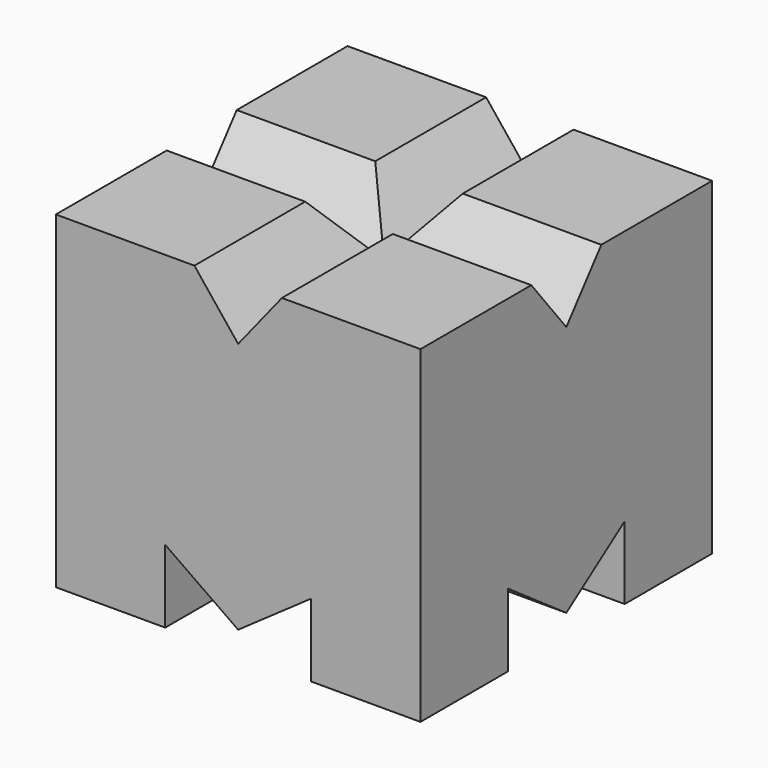
from build123d import *

# Parameters (mm, degrees)
F0_W     = 100
F0_H     = 100
F1_DEPTH = 90
F3_DEPTH = 100.001
F5_DEPTH = 100.001
F7_DEPTH = 100.001
F9_DEPTH = 100.001


with BuildPart() as f1:
    # F0 (on Top) → F1 (new body)
    with BuildSketch(Plane.XY):
        Rectangle(F0_W, F0_H)
    extrude(amount=F1_DEPTH)

    # F2 (on face) → F3 (cut, through all)
    with BuildSketch(Plane.YZ.offset(50)):
        Polygon((-20, 20), (-20, 0), (20, 0), (20, 20), (0, 6), align=None)
    extrude(amount=-F3_DEPTH, mode=Mode.SUBTRACT)

    # F4 (on face) → F5 (cut, through all)
    with BuildSketch(Plane.XZ.offset(50)):
        Polygon((-20, 20), (-20, 0), (20, 0), (20, 20), (0, 6), align=None)
    extrude(amount=-F5_DEPTH, mode=Mode.SUBTRACT)

    # F6 (on face) → F7 (cut, through all)
    with BuildSketch(Plane.YZ.offset(50)):
        Polygon((12, 90), (-12, 90), (0, 75), align=None)
    extrude(amount=-F7_DEPTH, mode=Mode.SUBTRACT)

    # F8 (on face) → F9 (cut, through all)
    with BuildSketch(Plane.XZ.offset(50)):
        Polygon((12, 90), (-12, 90), (0, 75), align=None)
    extrude(amount=-F9_DEPTH, mode=Mode.SUBTRACT)


solid = f1.part
